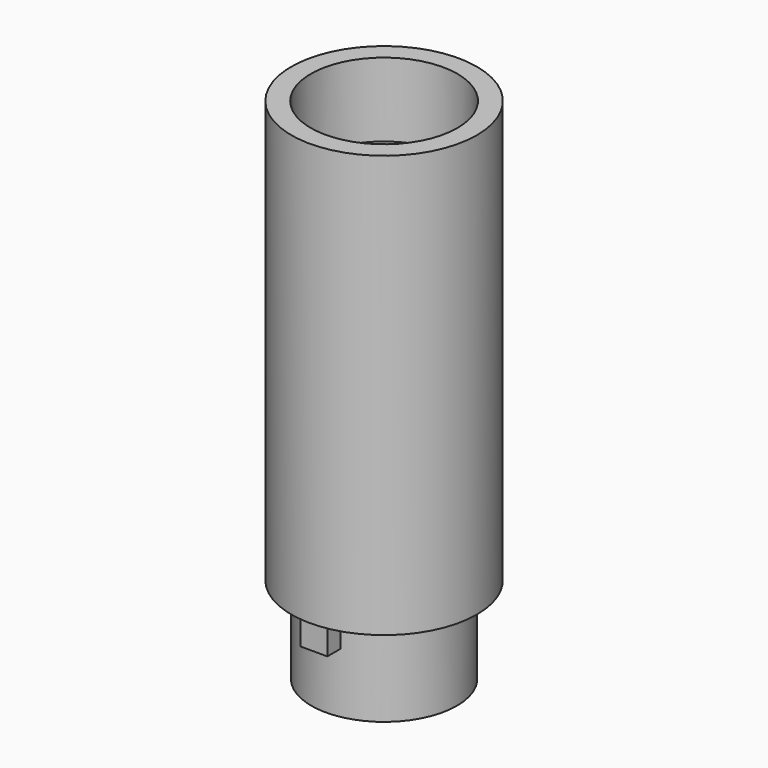
from build123d import *

# Parameters (mm, degrees)
F0_R     = 11.811
F0_R_2   = 6.6675
F1_DEPTH = 64.77
F2_R     = 9.271
F2_R_2   = 6.6675
F2_R_3   = 11.811
F3_DEPTH = 11.049
F5_DEPTH = 3.429
F6_R     = 9.3345
F7_DEPTH = 9.398
F8_SIZE  = 1.5875


with BuildPart() as f1:
    # F0 (on Top) → F1 (new body)
    with BuildSketch(Plane.XY):
        Circle(F0_R)
        Circle(F0_R_2, mode=Mode.SUBTRACT)
    extrude(amount=F1_DEPTH)

    # F2 (on face) → F3 (cut)
    with BuildSketch(Plane(origin=(0, 0, 0), x_dir=(1, 0, 0), z_dir=(0, 0, -1))):
        Circle(F2_R)
        Circle(F2_R_2, mode=Mode.SUBTRACT)
        Circle(F2_R_3)
        Circle(F2_R, mode=Mode.SUBTRACT)
    extrude(amount=-F3_DEPTH, mode=Mode.SUBTRACT)

    # F4 (on face) → F5 (join)
    with BuildSketch(Plane(origin=(0, 0, 11.049), x_dir=(1, 0, 0), z_dir=(0, 0, -1))):
        with BuildLine():
            Line((1.7145, 11.176), (-1.7145, 11.176))
            Line((-1.7145, 11.176), (-1.7145, 9.111088))
            ThreePointArc((-1.7145, 9.111088), (0, 9.271), (1.7145, 9.111088))
            Line((1.7145, 9.111088), (1.7145, 11.176))
        make_face()
    extrude(amount=F5_DEPTH)

    # F6 (on face) → F7 (cut)
    with BuildSketch(Plane.XY.offset(64.77)):
        Circle(F6_R)
    extrude(amount=-F7_DEPTH, mode=Mode.SUBTRACT)

    # F8
    f8_edges = [f1.edges().sort_by_distance(p)[0] for p in [
        (-6.6675, 0, 55.372),
    ]]
    chamfer(f8_edges, length=F8_SIZE)


solid = f1.part
